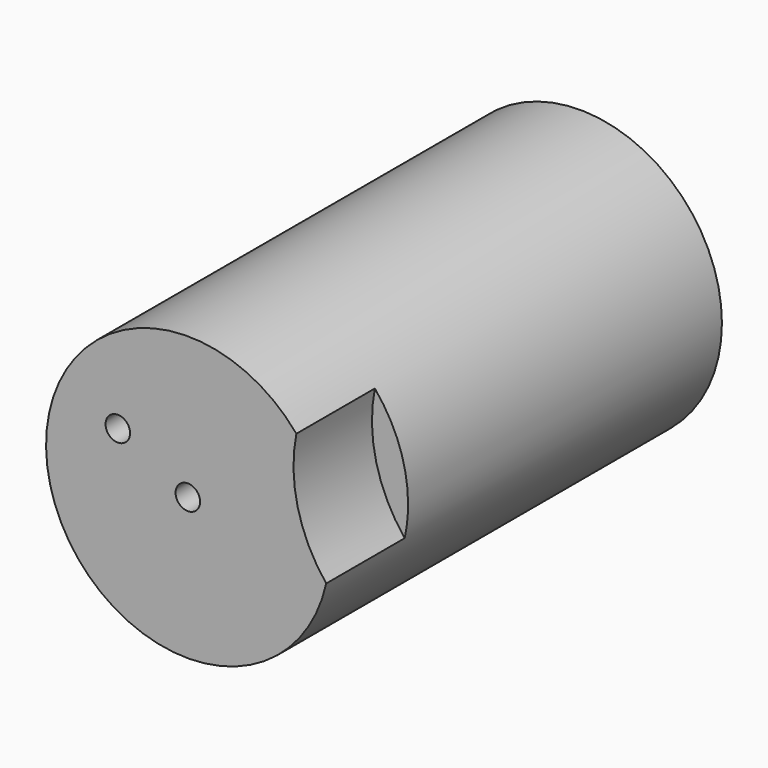
from build123d import *

# Parameters (mm, degrees)
F0_R     = 36.718352
F1_DEPTH = 127
F3_R     = 38.474743
F4_DEPTH = 62.738
F6_D     = 6.35


with BuildPart() as f1:
    # F0 (on Front) → F1 (new body)
    with BuildSketch(Plane.XZ):
        Circle(F0_R)
    extrude(amount=F1_DEPTH)

    # F3 (on offset) → F4 (cut)
    with BuildSketch(Plane.XZ.offset(101.6)):
        with Locations((65.835573, 16.081614)):
            Circle(F3_R)
    extrude(amount=F4_DEPTH, mode=Mode.SUBTRACT)

    # F6 (through all)
    with Locations(Plane.XZ.offset(127)):
        with Locations((-18.136533, 9.744127), (0, 0)):
            Hole(F6_D / 2)


solid = f1.part
